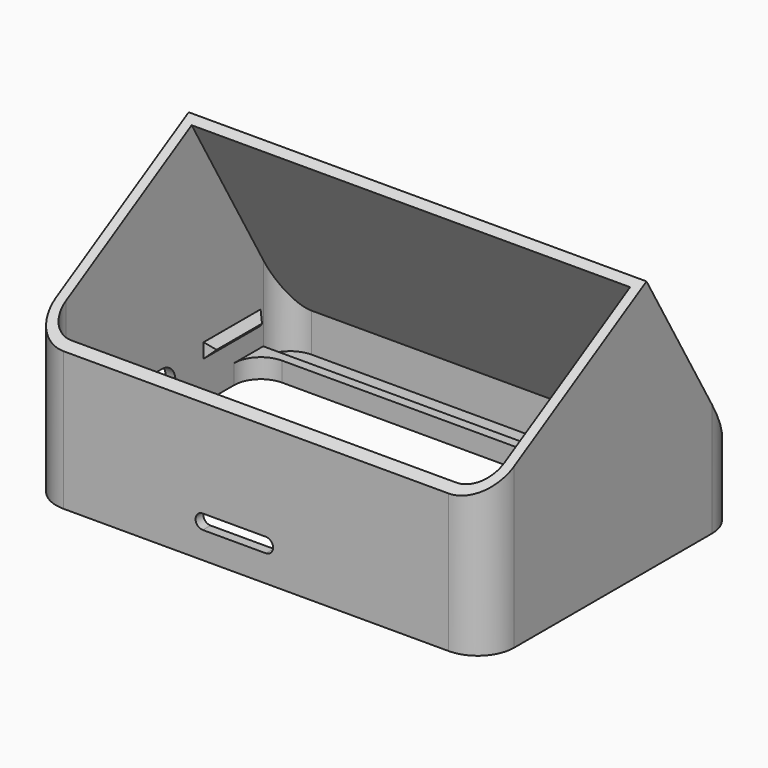
from build123d import *

# Parameters (mm, degrees)
BOX004_W               = 1.5
BOX004_H               = 14.7
BOX004_DEPTH           = 3
CHAMFER001_SIZE        = 1.49
BOX005_W               = 1.5
BOX005_H               = 14.7
BOX005_DEPTH           = 3
CHAMFER002_SIZE        = 1.49
BOX006_W               = 1.5
BOX006_H               = 14.7
BOX006_DEPTH           = 3
CHAMFER003_SIZE        = 1.49
EXTRUDE006_DEPTH       = 3
EXTRUDE005_DEPTH       = 3
BOX001_W               = 100
BOX001_H               = 100
BOX001_DEPTH           = 100
BOX001_PLACEMENT_ANGLE = 30
BOX_W                  = 100
BOX_H                  = 100
BOX_DEPTH              = 100
BOX_PLACEMENT_ANGLE    = 30
EXTRUDE_DEPTH          = 2
EXTRUDE001_DEPTH       = 2
EXTRUDE002_DEPTH       = 10
EXTRUDE003_DEPTH       = 52
EXTRUDE004_DEPTH       = 56
BOX002_W               = 100
BOX002_H               = 2
BOX002_DEPTH           = 100
BOX002_PLACEMENT_ANGLE = 30
BOX003_W               = 1.5
BOX003_H               = 14.7
BOX003_DEPTH           = 3
CHAMFER_SIZE           = 1.49


with BuildPart() as chamfer001:
    # Box004 → Box004 (new body)
    with BuildSketch(Plane(origin=(-45.25, -29, 8), x_dir=(1, 0, 0), z_dir=(0, 0, 1))):
        with Locations((0.75, 7.35)):
            Rectangle(BOX004_W, BOX004_H)
    extrude(amount=BOX004_DEPTH)

    # Chamfer001
    chamfer001_edges = [chamfer001.edges().sort_by_distance(p)[0] for p in [
        (-43.75, -29, 9.5),
        (-43.75, -21.65, 11),
        (-43.75, -14.3, 9.5),
        (-43.75, -21.65, 8),
    ]]
    chamfer(chamfer001_edges, length=CHAMFER001_SIZE)


with BuildPart() as chamfer002:
    # Box005 → Box005 (new body)
    with BuildSketch(Plane(origin=(43.75, 10, 7), x_dir=(1, 0, 0), z_dir=(0, 0, 1))):
        with Locations((0.75, 7.35)):
            Rectangle(BOX005_W, BOX005_H)
    extrude(amount=BOX005_DEPTH)

    # Chamfer002
    chamfer002_edges = [chamfer002.edges().sort_by_distance(p)[0] for p in [
        (43.75, 10, 8.5),
        (43.75, 17.35, 10),
        (43.75, 24.7, 8.5),
        (43.75, 17.35, 7),
    ]]
    chamfer(chamfer002_edges, length=CHAMFER002_SIZE)


with BuildPart() as chamfer003:
    # Box006 → Box006 (new body)
    with BuildSketch(Plane(origin=(-45.25, 10, 8), x_dir=(1, 0, 0), z_dir=(0, 0, 1))):
        with Locations((0.75, 7.35)):
            Rectangle(BOX006_W, BOX006_H)
    extrude(amount=BOX006_DEPTH)

    # Chamfer003
    chamfer003_edges = [chamfer003.edges().sort_by_distance(p)[0] for p in [
        (-43.75, 10, 9.5),
        (-43.75, 17.35, 11),
        (-43.75, 24.7, 9.5),
        (-43.75, 17.35, 8),
    ]]
    chamfer(chamfer003_edges, length=CHAMFER003_SIZE)


with BuildPart() as extrude006:
    # Sketch007 (on Face25 of Cut001) → Extrude006 (new body)
    with BuildSketch(Plane(origin=(-47.25, 0, 0), x_dir=(0, -1, 0), z_dir=(-1, 0, 0))):
        with BuildLine():
            ThreePointArc((0.75, 10.5), (-2.75, 7), (0.75, 3.5))
            Line((0.75, 3.5), (7.75, 3.5))
            ThreePointArc((7.75, 3.5), (11.25, 7), (7.75, 10.5))
            Line((7.75, 10.5), (0.75, 10.5))
        make_face()
    extrude(amount=-EXTRUDE006_DEPTH)


with BuildPart() as extrude005:
    # Sketch006 (on Face43 of Cut001) → Extrude005 (new body)
    with BuildSketch(Plane.XZ.offset(33)):
        with BuildLine():
            ThreePointArc((2, 5.5), (3.5, 7), (2, 8.5))
            Line((2, 8.5), (-11, 8.5))
            ThreePointArc((-11, 8.5), (-12.5, 7), (-11, 5.5))
            Line((-11, 5.5), (2, 5.5))
        make_face()
    extrude(amount=-EXTRUDE005_DEPTH)


with BuildPart() as cube001:
    # Box001 → Box001 (new body)
    with BuildSketch(Plane.XY):
        with Locations((50, 50)):
            Rectangle(BOX001_W, BOX001_H)
    extrude(amount=BOX001_DEPTH)


with BuildPart() as cube001_1:
    # Box001 placement: moved
    add(cube001.part.moved(Location((-50, -49.539727, 19.087357))).rotate(Axis((-50, -49.539727, 19.087357), (1, 0, 0)), BOX001_PLACEMENT_ANGLE))


with BuildPart() as cube:
    # Box → Box (new body)
    with BuildSketch(Plane.XY):
        with Locations((50, 50)):
            Rectangle(BOX_W, BOX_H)
    extrude(amount=BOX_DEPTH)


with BuildPart() as cube_1:
    # Box placement: moved
    add(cube.part.moved(Location((-50, 39.30718, -0.4))).rotate(Axis((-50, 39.30718, -0.4), (1, 0, 0)), BOX_PLACEMENT_ANGLE))


with BuildPart() as extrude_body:
    # Sketch001 → Extrude (new body)
    with BuildSketch(Plane.XY):
        with BuildLine():
            ThreePointArc((-39.75, 33), (-45.053301, 30.803301), (-47.25, 25.5))
            Line((-47.25, -25.5), (-47.25, 25.5))
            ThreePointArc((-47.25, -25.5), (-45.053301, -30.803301), (-39.75, -33))
            Line((39.75, -33), (-39.75, -33))
            ThreePointArc((39.75, -33), (45.053301, -30.803301), (47.25, -25.5))
            Line((47.25, 25.5), (47.25, -25.5))
            ThreePointArc((47.25, 25.5), (45.053301, 30.803301), (39.75, 33))
            Line((-39.75, 33), (39.75, 33))
        make_face()
        with BuildLine():
            ThreePointArc((-39.75, 23.4), (-43.639087, 21.789087), (-45.25, 17.9))
            Line((-45.25, -25.5), (-45.25, 17.9))
            ThreePointArc((-45.25, -25.5), (-43.639087, -29.389087), (-39.75, -31))
            Line((39.75, -31), (-39.75, -31))
            ThreePointArc((39.75, -31), (43.639087, -29.389087), (45.25, -25.5))
            Line((45.25, 17.9), (45.25, -25.5))
            ThreePointArc((45.25, 17.9), (43.639087, 21.789087), (39.75, 23.4))
            Line((-39.75, 23.4), (39.75, 23.4))
        make_face(mode=Mode.SUBTRACT)
    extrude(amount=EXTRUDE_DEPTH)


with BuildPart() as extrude_2mm:
    # Sketch002 → Extrude001 (new body)
    with BuildSketch(Plane.XY.offset(2)):
        with BuildLine():
            ThreePointArc((-39.75, 33), (-45.053301, 30.803301), (-47.25, 25.5))
            Line((-47.25, -25.5), (-47.25, 25.5))
            ThreePointArc((-47.25, -25.5), (-45.053301, -30.803301), (-39.75, -33))
            Line((39.75, -33), (-39.75, -33))
            ThreePointArc((39.75, -33), (45.053301, -30.803301), (47.25, -25.5))
            Line((47.25, 25.5), (47.25, -25.5))
            ThreePointArc((47.25, 25.5), (45.053301, 30.803301), (39.75, 33))
            Line((-39.75, 33), (39.75, 33))
        make_face()
        with BuildLine():
            ThreePointArc((-39.75, 23.4), (-43.639087, 21.789087), (-45.25, 17.9))
            Line((-45.25, -25.5), (-45.25, 17.9))
            ThreePointArc((-45.25, -25.5), (-43.639087, -29.389087), (-39.75, -31))
            Line((39.75, -31), (-39.75, -31))
            ThreePointArc((39.75, -31), (43.639087, -29.389087), (45.25, -25.5))
            Line((45.25, 17.9), (45.25, -25.5))
            ThreePointArc((45.25, 17.9), (43.639087, 21.789087), (39.75, 23.4))
            Line((-39.75, 23.4), (39.75, 23.4))
        make_face(mode=Mode.SUBTRACT)
        with BuildLine():
            ThreePointArc((-39.75, 31), (-43.639087, 29.389087), (-45.25, 25.5))
            Line((-45.25, 25.5), (-45.25, 25.4))
            Line((-45.25, 25.4), (45.25, 25.4))
            Line((45.25, 25.5), (45.25, 25.4))
            ThreePointArc((45.25, 25.5), (43.639086, 29.389089), (39.749996, 31))
            Line((-39.75, 31), (39.749996, 31))
        make_face(mode=Mode.SUBTRACT)
    extrude(amount=EXTRUDE001_DEPTH)


with BuildPart() as extrude_4mm:
    # Sketch003 → Extrude002 (new body)
    with BuildSketch(Plane.XY.offset(4)):
        with BuildLine():
            ThreePointArc((-39.75, 33), (-45.053301, 30.803301), (-47.25, 25.5))
            Line((-47.25, -25.5), (-47.25, 25.5))
            ThreePointArc((-47.25, -25.5), (-45.053301, -30.803301), (-39.75, -33))
            Line((39.75, -33), (-39.75, -33))
            ThreePointArc((39.75, -33), (45.053301, -30.803301), (47.25, -25.5))
            Line((47.25, 25.5), (47.25, -25.5))
            ThreePointArc((47.25, 25.5), (45.053301, 30.803301), (39.75, 33))
            Line((-39.75, 33), (39.75, 33))
        make_face()
        with BuildLine():
            ThreePointArc((-39.75, 31), (-43.639087, 29.389087), (-45.25, 25.5))
            Line((-45.25, -25.5), (-45.25, 25.5))
            ThreePointArc((-45.25, -25.5), (-43.639087, -29.389087), (-39.75, -31))
            Line((39.75, -31), (-39.75, -31))
            ThreePointArc((39.75, -31), (43.639087, -29.389087), (45.25, -25.5))
            Line((45.25, 25.5), (45.25, -25.5))
            ThreePointArc((45.25, 25.5), (43.639087, 29.389087), (39.75, 31))
            Line((-39.75, 31), (39.75, 31))
        make_face(mode=Mode.SUBTRACT)
    extrude(amount=EXTRUDE002_DEPTH)


with BuildPart() as extrude_6mm:
    # Sketch003 → Extrude003 (new body)
    with BuildSketch(Plane.XY.offset(4)):
        with BuildLine():
            ThreePointArc((-39.75, 33), (-45.053301, 30.803301), (-47.25, 25.5))
            Line((-47.25, -25.5), (-47.25, 25.5))
            ThreePointArc((-47.25, -25.5), (-45.053301, -30.803301), (-39.75, -33))
            Line((39.75, -33), (-39.75, -33))
            ThreePointArc((39.75, -33), (45.053301, -30.803301), (47.25, -25.5))
            Line((47.25, 25.5), (47.25, -25.5))
            ThreePointArc((47.25, 25.5), (45.053301, 30.803301), (39.75, 33))
            Line((-39.75, 33), (39.75, 33))
        make_face()
        with BuildLine():
            ThreePointArc((-39.75, 31), (-43.639087, 29.389087), (-45.25, 25.5))
            Line((-45.25, -25.5), (-45.25, 25.5))
            ThreePointArc((-45.25, -25.5), (-43.639087, -29.389087), (-39.75, -31))
            Line((39.75, -31), (-39.75, -31))
            ThreePointArc((39.75, -31), (43.639087, -29.389087), (45.25, -25.5))
            Line((45.25, 25.5), (45.25, -25.5))
            ThreePointArc((45.25, 25.5), (43.639087, 29.389087), (39.75, 31))
            Line((-39.75, 31), (39.75, 31))
        make_face(mode=Mode.SUBTRACT)
    extrude(amount=EXTRUDE003_DEPTH)


with BuildPart() as extrude004:
    # Sketch004 → Extrude004 (new body)
    with BuildSketch(Plane.XY):
        with BuildLine():
            ThreePointArc((-39.75, 33), (-45.053301, 30.803301), (-47.25, 25.5))
            Line((-47.25, -25.5), (-47.25, 25.5))
            ThreePointArc((-47.25, -25.5), (-45.053301, -30.803301), (-39.75, -33))
            Line((39.75, -33), (-39.75, -33))
            ThreePointArc((39.75, -33), (45.053301, -30.803301), (47.25, -25.5))
            Line((47.25, 25.5), (47.25, -25.5))
            ThreePointArc((47.25, 25.5), (45.053301, 30.803301), (39.75, 33))
            Line((-39.75, 33), (39.75, 33))
        make_face()
    extrude(amount=EXTRUDE004_DEPTH)


with BuildPart() as cut003:
    # Box002 → Box002 (new body)
    with BuildSketch(Plane.XY):
        with Locations((50, 1)):
            Rectangle(BOX002_W, BOX002_H)
    extrude(amount=BOX002_DEPTH)


with BuildPart() as cut003_1:
    # Box002 placement: moved
    add(cut003.part.moved(Location((-50, 37.575129, -1.4))).rotate(Axis((-50, 37.575129, -1.4), (1, 0, 0)), BOX002_PLACEMENT_ANGLE))

    # Common: intersect Extrude004
    add(extrude004.part, mode=Mode.INTERSECT)

    # Fusion: union Extrude body, Extrude_2mm, Extrude_4mm, Extrude_6mm
    add(extrude_body.part)
    add(extrude_2mm.part)
    add(extrude_4mm.part)
    add(extrude_6mm.part)

    # Cut: cut Cube
    add(cube_1.part, mode=Mode.SUBTRACT)

    # Cut001: cut Cube001
    add(cube001_1.part, mode=Mode.SUBTRACT)

    # Cut002: cut Extrude005
    add(extrude005.part, mode=Mode.SUBTRACT)

    # Cut003: cut Extrude006
    add(extrude006.part, mode=Mode.SUBTRACT)


with BuildPart() as main:
    # Box003 → Box003 (new body)
    with BuildSketch(Plane(origin=(43.75, -29, 7), x_dir=(1, 0, 0), z_dir=(0, 0, 1))):
        with Locations((0.75, 7.35)):
            Rectangle(BOX003_W, BOX003_H)
    extrude(amount=BOX003_DEPTH)

    # Chamfer
    chamfer_edges = [main.edges().sort_by_distance(p)[0] for p in [
        (43.75, -29, 8.5),
        (43.75, -21.65, 10),
        (43.75, -14.3, 8.5),
        (43.75, -21.65, 7),
    ]]
    chamfer(chamfer_edges, length=CHAMFER_SIZE)

    # Connect: union Chamfer001, Chamfer002, Chamfer003, Cut003
    add(chamfer001.part)
    add(chamfer002.part)
    add(chamfer003.part)
    add(cut003_1.part)


solid = main.part
